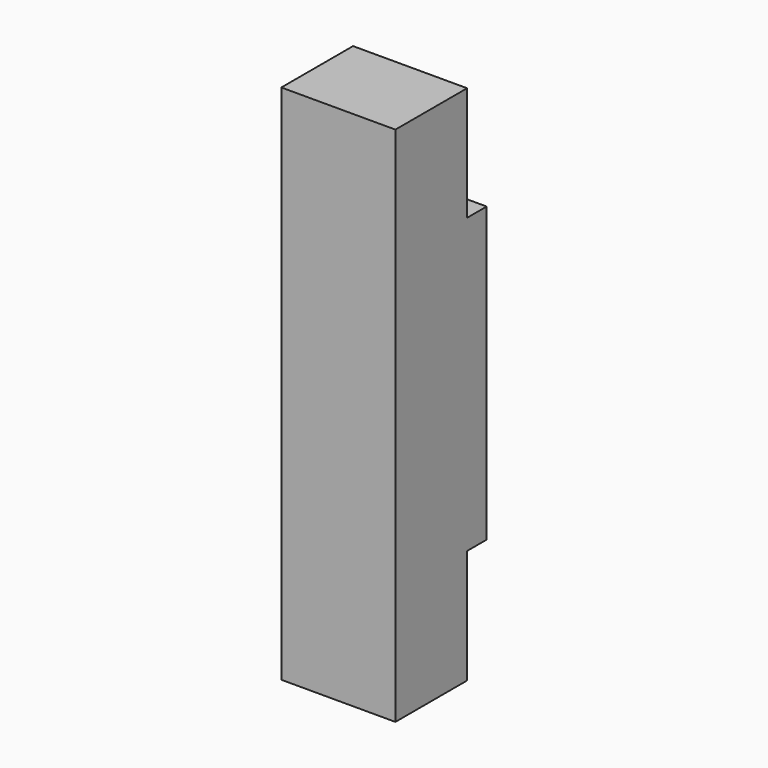
from build123d import *

# Parameters (mm, degrees)
F0_W     = 88.9
F0_H     = 88.9
F1_DEPTH = 406.4
F2_W     = 19.05
F2_H     = 88.9
F3_DEPTH = 88.9


with BuildPart() as f1:
    # F0 (on Top) → F1 (new body)
    with BuildSketch(Plane.XY):
        Rectangle(F0_W, F0_H)
    extrude(amount=F1_DEPTH)

    # F2 (on face) → F3 (cut, through all)
    with BuildSketch(Plane.YZ.offset(44.45)):
        with Locations((34.925, 361.95)):
            Rectangle(F2_W, F2_H)
        with Locations((34.925, 44.45)):
            Rectangle(F2_W, F2_H)
    extrude(amount=-F3_DEPTH, mode=Mode.SUBTRACT)


solid = f1.part
